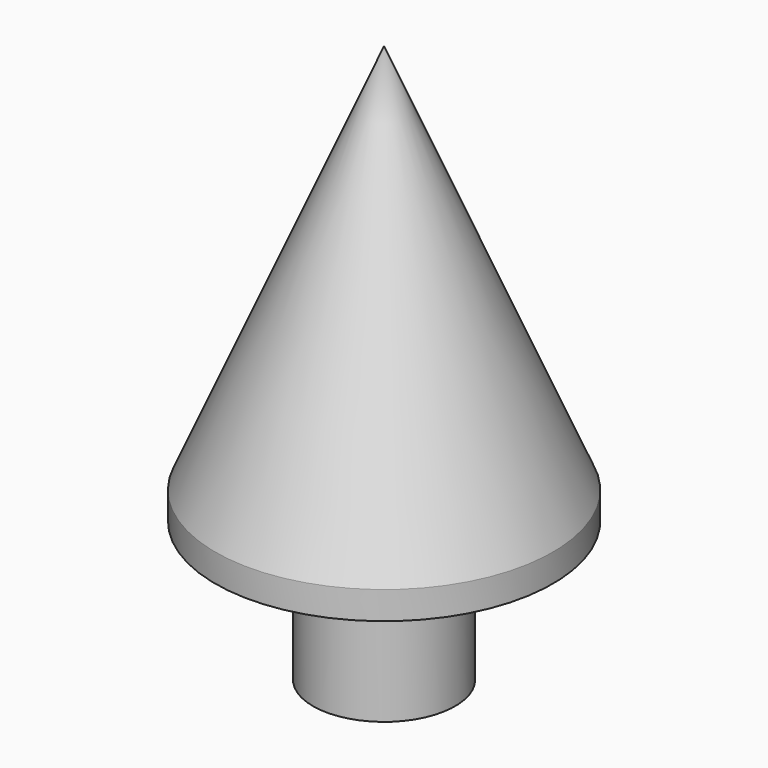
from build123d import *

# Parameters (mm, degrees)
F3_D     = 2.2606
F3_DEPTH = 6.351


with BuildPart() as f1:
    # F0 (on Front) → F1 (revolve)
    with BuildSketch(Plane.XZ):
        Polygon((-7.6835, 1.27), (-7.6835, 0), (-3.2385, 0), (-3.2385, -6.35), (0, -6.35), (0, 19.05), align=None)
    revolve(axis=Axis((0, 0, 6.35), (0, 0, 1)))

    # F3 (through all, one way)
    with BuildSketch(Plane.XY):
        with Locations((0, 0)):
            Circle(F3_D / 2)
    extrude(amount=-F3_DEPTH, mode=Mode.SUBTRACT)


solid = f1.part
